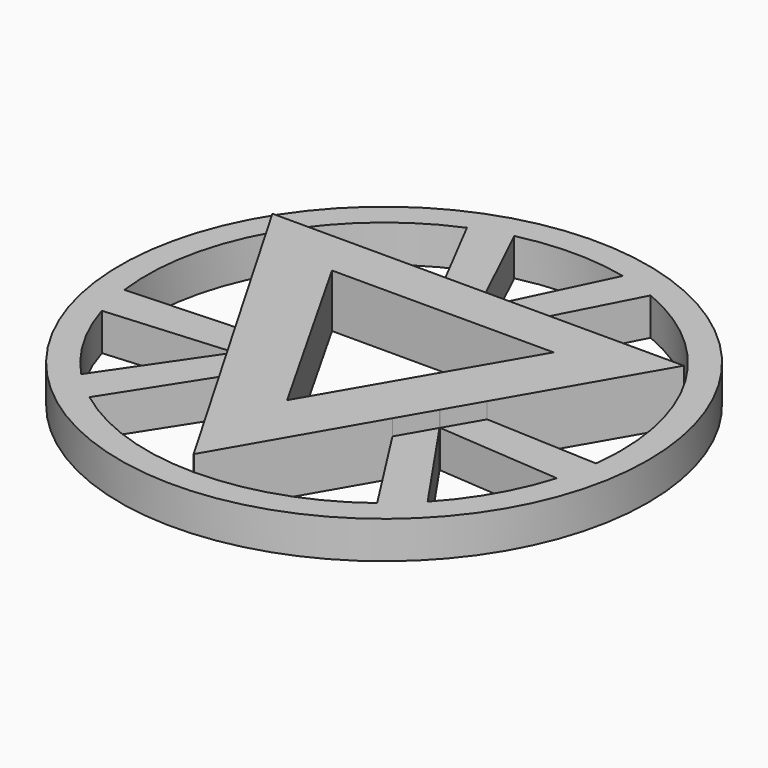
from build123d import *

# Parameters (mm, degrees)
F0_R     = 49.5157627348
F1_DEPTH = 7
F2_DEPTH = 10


with BuildPart() as f1:
    # F0 (on Top) → F1 (new body)
    with BuildSketch(Plane.XY):
        with Locations((0.0839262699, -0.1461637082)):
            Circle(F0_R)
        with BuildLine():
            Line((0.0267643967, -44.6618897427), (0, -44.7082470376))
            Line((0, -44.7082470376), (-0.0268818374, -44.6617885317))
            ThreePointArc((-0.0268818374, -44.6617885317), (-14.1516044467, -42.324390284), (-26.8038826396, -35.6243099945))
            ThreePointArc((-26.8038826396, -35.6243099945), (-29.6611996613, -33.2653517296), (-32.3124416737, -30.6769428651))
            ThreePointArc((-32.3124416737, -30.6769428651), (-38.429049495, -22.4711234975), (-42.509896824, -13.0852272796))
            ThreePointArc((-42.509896824, -13.0852272796), (-43.4389725447, -9.4955171959), (-44.066075615, -5.8409389824))
            ThreePointArc((-44.066075615, -5.8409389824), (-43.5841571557, 8.499738315), (-38.5652678357, 21.9421347063))
            Line((-38.5652678357, 21.9421347063), (-38.6347375564, 22.0621956747))
            Line((-38.6347375564, 22.0621956747), (-38.4964042805, 22.0621956747))
            ThreePointArc((-38.4964042805, 22.0621956747), (-29.3887182603, 33.2157360617), (-17.1971452384, 40.8784350026))
            ThreePointArc((-17.1971452384, 40.8784350026), (-13.7255689437, 42.1734649977), (-10.1583201055, 43.1753034997))
            ThreePointArc((-10.1583201055, 43.1753034997), (0.0064318364, 44.3695315741), (10.1752800628, 43.2107009211))
            ThreePointArc((10.1752800628, 43.2107009211), (13.7485980478, 42.2204490553), (17.2271071561, 40.9362471383))
            ThreePointArc((17.2271071561, 40.9362471383), (37.1298093388, 24.5369414349), (44.5996890047, -0.1461637082))
            ThreePointArc((44.5996890047, -0.1461637082), (44.5128837908, -2.9248082447), (44.2528066877, -5.6926161328))
            ThreePointArc((44.2528066877, -5.6926161328), (43.6385474147, -9.3466043928), (42.7225405888, -12.9368517593))
            ThreePointArc((42.7225405888, -12.9368517593), (38.6743964683, -22.3368992014), (32.5863955708, -30.5639647662))
            ThreePointArc((32.5863955708, -30.5639647662), (29.9421533065, -33.1634229841), (27.0907472686, -35.5337992806))
            ThreePointArc((27.0907472686, -35.5337992806), (14.3107158099, -42.3273395008), (0.0267643967, -44.6618897427))
        make_face(mode=Mode.SUBTRACT)
        with BuildLine():
            Line((0.0424022413, 22.0621956747), (7.4453759007, 22.0621956747))
            Line((7.4453759007, 22.0621956747), (17.2271071561, 40.9362471383))
            ThreePointArc((17.2271071561, 40.9362471383), (13.7485980478, 42.2204490553), (10.1752800628, 43.2107009211))
            Line((10.1752800628, 43.2107009211), (0.0424022413, 22.0621956747))
        make_face()
        with BuildLine():
            Line((-17.1971452384, 40.8784350026), (-7.4453759007, 22.0621956747))
            Line((-7.4453759007, 22.0621956747), (-0.0424022413, 22.0621956747))
            Line((-0.0424022413, 22.0621956747), (-10.1583201055, 43.1753034997))
            ThreePointArc((-10.1583201055, 43.1753034997), (-13.7255689437, 42.1734649977), (-17.1971452384, 40.8784350026))
        make_face()
        with BuildLine():
            Line((23.0815807572, -4.7297764472), (19.3800939274, -11.1409396998))
            Line((19.3800939274, -11.1409396998), (42.7225405888, -12.9368517593))
            ThreePointArc((42.7225405888, -12.9368517593), (43.6385474147, -9.3466043928), (44.2528066877, -5.6926161328))
            Line((44.2528066877, -5.6926161328), (23.0815807572, -4.7297764472))
        make_face()
        with BuildLine():
            Line((19.3376916862, -11.2143825361), (15.6362048564, -17.6255457887))
            Line((15.6362048564, -17.6255457887), (27.0907472686, -35.5337992806))
            ThreePointArc((27.0907472686, -35.5337992806), (29.9421533065, -33.1634229841), (32.5863955708, -30.5639647662))
            Line((32.5863955708, -30.5639647662), (19.3376916862, -11.2143825361))
        make_face()
        with BuildLine():
            Line((-26.8038826396, -35.6243099945), (-15.4905179287, -17.9367764554))
            Line((-15.4905179287, -17.9367764554), (-19.1998425991, -11.5261401713))
            Line((-19.1998425991, -11.5261401713), (-32.3124416737, -30.6769428651))
            ThreePointArc((-32.3124416737, -30.6769428651), (-29.6611996613, -33.2653517296), (-26.8038826396, -35.6243099945))
        make_face()
        with BuildLine():
            Line((-42.509896824, -13.0852272796), (-19.3296534264, -11.3017947516))
            Line((-19.3296534264, -11.3017947516), (-23.0426451757, -4.8848208426))
            Line((-23.0426451757, -4.8848208426), (-44.066075615, -5.8409389824))
            ThreePointArc((-44.066075615, -5.8409389824), (-43.4389725447, -9.4955171959), (-42.509896824, -13.0852272796))
        make_face()
    extrude(amount=F1_DEPTH)


with BuildPart() as f2:
    # F0 (on Top) → F2 (new body)
    with BuildSketch(Plane.XY):
        with BuildLine():
            Line((-20.5581244081, 13.4461242706), (21.0026260465, 13.4461242706))
            Line((21.0026260465, 13.4461242706), (38.5499330739, 22.0621956747))
            Line((38.5499330739, 22.0621956747), (7.4453759007, 22.0621956747))
            Line((7.4453759007, 22.0621956747), (0.0424022413, 22.0621956747))
            Line((0.0424022413, 22.0621956747), (-0.0424022413, 22.0621956747))
            Line((-0.0424022413, 22.0621956747), (-7.4453759007, 22.0621956747))
            Line((-7.4453759007, 22.0621956747), (-38.4964042805, 22.0621956747))
            ThreePointArc((-38.4964042805, 22.0621956747), (-38.511286477, 22.036322286), (-38.5261513218, 22.0104389245))
            Line((-38.5261513218, 22.0104389245), (-20.5581244081, 13.4461242706))
        make_face()
        with BuildLine():
            ThreePointArc((0, -44.6618473292), (0.0133821951, -44.6618705474), (0.0267643967, -44.6618897427))
            Line((0.0267643967, -44.6618897427), (15.6362048564, -17.6255457887))
            Line((15.6362048564, -17.6255457887), (19.3376916862, -11.2143825361))
            Line((19.3376916862, -11.2143825361), (19.3800939274, -11.1409396998))
            Line((19.3800939274, -11.1409396998), (23.0815807572, -4.7297764472))
            Line((23.0815807572, -4.7297764472), (38.5499330739, 22.0621956747))
            Line((38.5499330739, 22.0621956747), (21.0026260465, 13.4461242706))
            Line((21.0026260465, 13.4461242706), (0, -22.7806251496))
            Line((0, -22.7806251496), (0, -44.6618473292))
        make_face()
        with BuildLine():
            Line((-15.4905179287, -17.9367764554), (-0.0268818374, -44.6617885317))
            ThreePointArc((-0.0268818374, -44.6617885317), (-0.0134409231, -44.6618199596), (0, -44.6618473292))
            Line((0, -44.6618473292), (0, -22.7806251496))
            Line((0, -22.7806251496), (-20.5581244081, 13.4461242706))
            Line((-20.5581244081, 13.4461242706), (-38.5261513218, 22.0104389245))
            ThreePointArc((-38.5261513218, 22.0104389245), (-38.5457246755, 21.976295461), (-38.5652678357, 21.9421347063))
            Line((-38.5652678357, 21.9421347063), (-23.0426451757, -4.8848208426))
            Line((-23.0426451757, -4.8848208426), (-19.3296534264, -11.3017947516))
            Line((-19.3296534264, -11.3017947516), (-19.1998425991, -11.5261401713))
            Line((-19.1998425991, -11.5261401713), (-15.4905179287, -17.9367764554))
        make_face()
    extrude(amount=F2_DEPTH)


solid = Compound([f1.part, f2.part])
